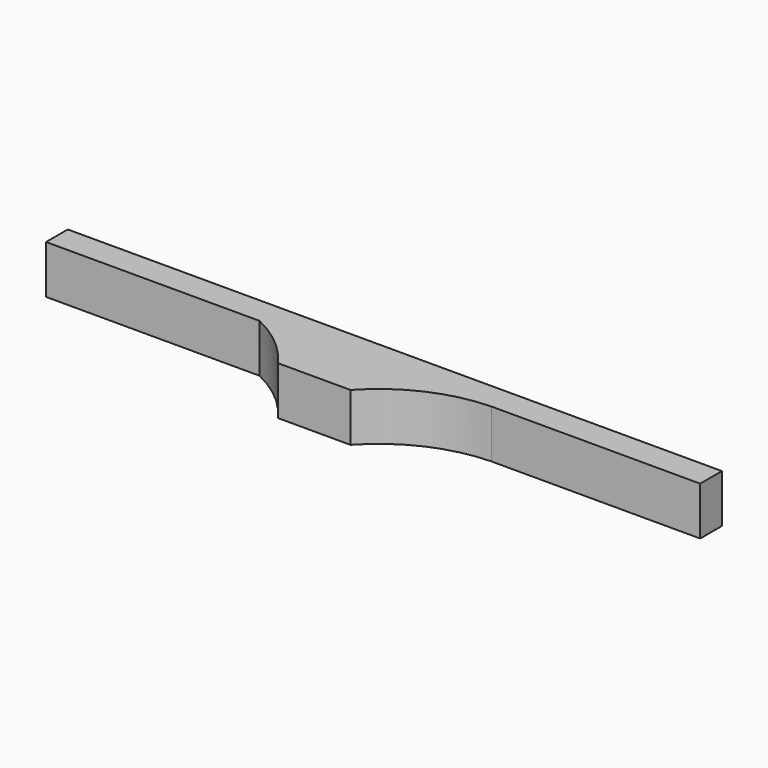
from build123d import *

# Parameters (mm, degrees)
F1_DEPTH = 10
F2_R     = 2.5
F2_R_2   = 1.775
F3_DEPTH = 2


with BuildPart() as f1:
    # F0 (on Top) → F1 (new body)
    with BuildSketch(Plane.XY):
        with BuildLine():
            ThreePointArc((-19.086976, 0), (-12.672631, -4.109049), (-7.5, -9.701186))
            Line((-7.5, -9.701186), (7.496958, -9.701186))
            ThreePointArc((7.496958, -9.701186), (17.220489, -2.662954), (28.924866, 0))
            Line((28.924866, 0), (72.081573, 0))
            Line((72.081573, 0), (72.081573, 5.619446))
            Line((72.081573, 5.619446), (-63.214712, 5.619446))
            Line((-63.214712, 5.619446), (-63.214712, 0))
            Line((-63.214712, 0), (-19.086976, 0))
        make_face()
    extrude(amount=F1_DEPTH)

    # F2 (on face) → F3 (join)
    with BuildSketch(Plane(origin=(0, 5.619446, 0), x_dir=(-1, 0, 0), z_dir=(0, 1, 0))):
        with Locations((0, 5.099132)):
            Circle(F2_R)
        with Locations((0, 5.099132)):
            Circle(F2_R_2, mode=Mode.SUBTRACT)
    extrude(amount=F3_DEPTH)


solid = f1.part
